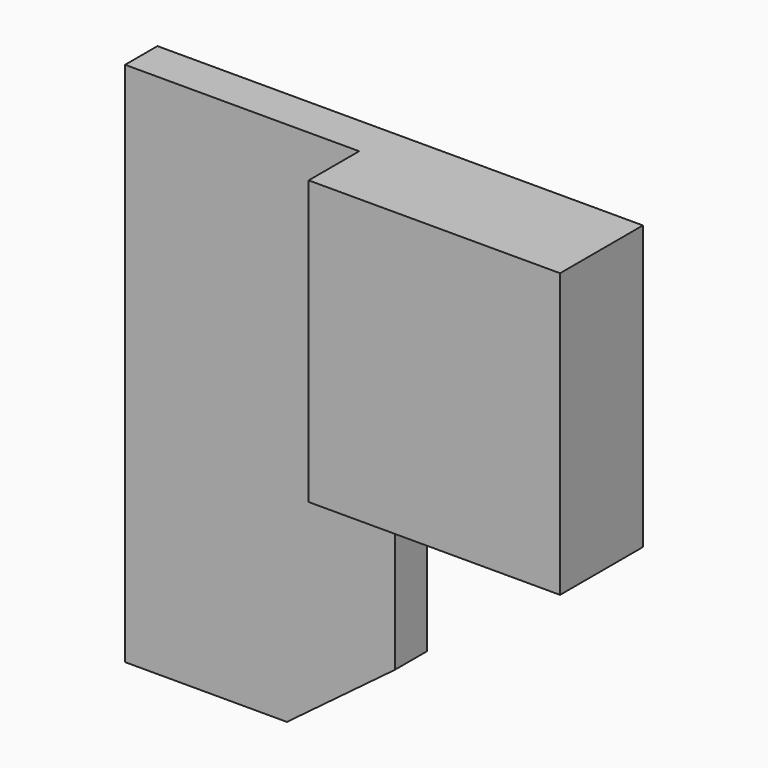
from build123d import *

# Parameters (mm, degrees)
F0_W     = 152.4
F0_H     = 12.7
F1_DEPTH = 165.1
F2_SIZE2 = 76.2
F2_SIZE  = 101.6
F3_W     = 78.9234735198
F3_H     = 88.9
F4_DEPTH = 19.812
F6_DEPTH = 25.4


with BuildPart() as f1:
    # F0 (on Top) → F1 (new body)
    with BuildSketch(Plane.XY):
        Rectangle(F0_W, F0_H)
    extrude(amount=F1_DEPTH)

    # F2
    f2_edges = [f1.edges().sort_by_distance(p)[0] for p in [
        (76.2, 0, 0),
    ]]
    f2_side = f1.faces().sort_by_distance((0, 0, 0))[0]
    chamfer(f2_edges, length=F2_SIZE, length2=F2_SIZE2, reference=f2_side)

    # F3 (on face) → F4 (join)
    with BuildSketch(Plane.XZ.offset(6.35)):
        with Locations((36.7382632401, 120.65)):
            Rectangle(F3_W, F3_H)
    extrude(amount=F4_DEPTH)

    # F5 (on face) → F6 (cut)
    with BuildSketch(Plane(origin=(0, 6.35, 0), x_dir=(-1, 0, 0), z_dir=(0, 1, 0))):
        Polygon((-8.4666666667, 76.2), (-76.2, 76.2), (-8.4666666667, 25.4), align=None)
    extrude(amount=-F6_DEPTH, mode=Mode.SUBTRACT)


solid = f1.part
